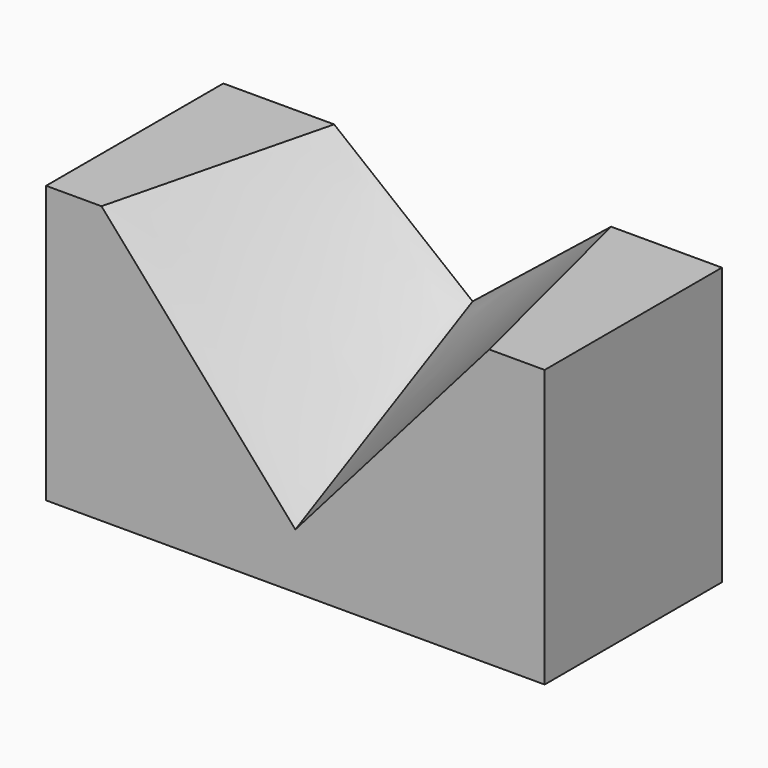
from build123d import *

# Parameters (mm, degrees)
F0_W     = 22.86
F0_H     = 12.7
F1_DEPTH = 10.16


with BuildPart() as f1:
    # F0 (on Front) → F1 (new body)
    with BuildSketch(Plane.XZ):
        with Locations((-27.718625, 6.35)):
            Rectangle(F0_W, F0_H)
    extrude(amount=F1_DEPTH)

    # F2 (on face) → F4 section 0
    with BuildSketch(Plane.XZ.offset(10.16)):
        Polygon((-18.828625, 12.7), (-36.608625, 12.7), (-27.718625, 2.54), align=None)
    # F3 (on face) → F4 section 1
    with BuildSketch(Plane(origin=(0, 0, 0), x_dir=(-1, 0, 0), z_dir=(0, 1, 0))):
        Polygon((34.068625, 12.7), (21.368625, 12.7), (27.718625, 7.62), align=None)
    loft(mode=Mode.SUBTRACT)


solid = f1.part
